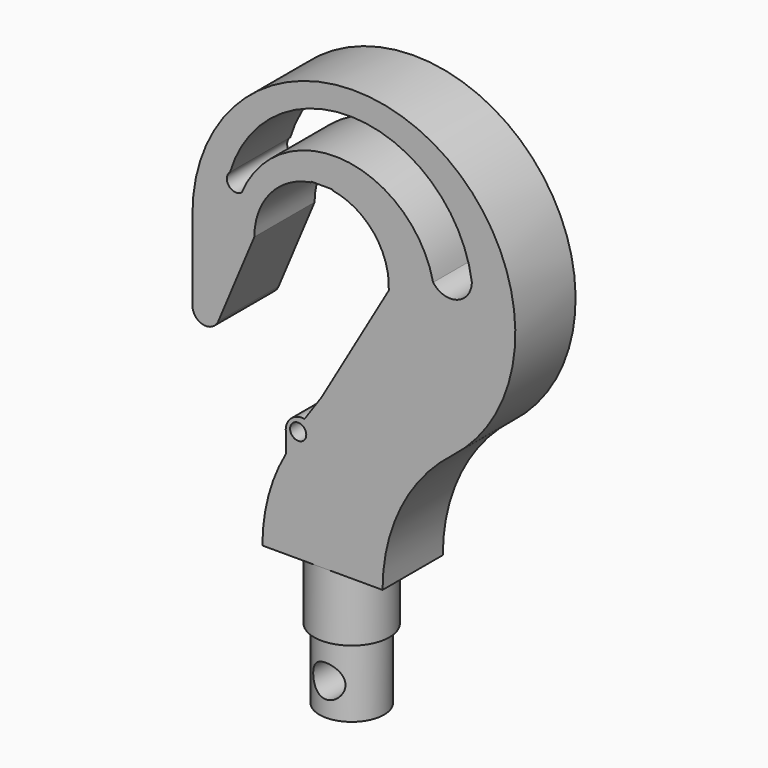
from build123d import *

# Parameters (mm, degrees)
F3_DEPTH = 70
F4_R     = 30
F5_DEPTH = 112
F6_R     = 15
F7_DEPTH = 163
F9_DEPTH = 150


with BuildPart() as f2:
    # F1 (on Front) → F2 (revolve)
    with BuildSketch(Plane.XZ):
        Polygon((-60, -120), (-60, -250), (0, -250), (0, 0), (-70, 0), (-70, -120), align=None)
    revolve(axis=Axis((0, 0, -125), (0, 0, -1)))

    # F0 (on Front) → F3 (join, symmetric)
    with BuildSketch(Plane.XZ):
        with BuildLine():
            ThreePointArc((113.275358, 0), (147.343032, 146.027594), (242.512075, 261.904762))
            ThreePointArc((242.512075, 261.904762), (192.752359, 769.029387), (-240, 500))
            Line((-240, 500), (-125, 500))
            ThreePointArc((-125, 500), (-95.197164, 581.009259), (-20, 623.389627))
            Line((-20, 623.389627), (-20, 624.947867))
            Line((-20, 624.947867), (20, 624.947867))
            Line((20, 624.947867), (20, 623.389627))
            ThreePointArc((20, 623.389627), (97.236318, 578.549974), (124.836727, 493.613169))
            Line((124.836727, 493.613169), (0, 278.411619))
            Line((0, 278.411619), (-31.669397, 232.573897))
            ThreePointArc((-31.669397, 232.573897), (-58.197727, 223.86417), (-66.061109, 197.072774))
            Line((-66.061109, 197.072774), (-66.061109, 164.52672))
            ThreePointArc((-66.061109, 164.52672), (-98.826102, 85.146444), (-110, 0))
            Line((-110, 0), (113.275358, 0))
        make_face()
        with BuildLine():
            Line((-125, 500), (-240, 500))
            Line((-240, 500), (-240, 350))
            ThreePointArc((-240, 350), (-219.930134, 325.490945), (-191.944498, 340.333365))
            Line((-191.944498, 340.333365), (-125, 500))
        make_face()
    extrude(amount=F3_DEPTH, both=True)

    # F4 (on Front) → F5 (cut, symmetric)
    with BuildSketch(Plane.XZ):
        with Locations((0, -190)):
            Circle(F4_R)
    extrude(amount=F5_DEPTH, both=True, mode=Mode.SUBTRACT)

    # F6 (on face) → F7 (cut, symmetric)
    with BuildSketch(Plane.XZ.offset(70)):
        with Locations((-43.483209, 207.776994)):
            Circle(F6_R)
        with Locations((-43.483209, 207.776994)):
            Circle(F6_R)
    extrude(amount=F7_DEPTH, both=True, mode=Mode.SUBTRACT)

    # F8 (on face) → F9 (cut)
    with BuildSketch(Plane.XZ.offset(70)):
        with BuildLine():
            ThreePointArc((207.243012, 533.562227), (251.876022, 519.636331), (279.226912, 557.556839))
            ThreePointArc((279.226912, 557.556839), (68.171297, 754.813507), (-170.094242, 591.460519))
            ThreePointArc((-170.094242, 591.460519), (-171.994625, 567.583929), (-148.132823, 565.506094))
            ThreePointArc((-148.132823, 565.506094), (41.282548, 680.00219), (207.243012, 533.562227))
        make_face()
        with BuildLine():
            ThreePointArc((207.243012, 533.562227), (251.876022, 519.636331), (279.226912, 557.556839))
            ThreePointArc((279.226912, 557.556839), (68.171297, 754.813507), (-170.094242, 591.460519))
            ThreePointArc((-170.094242, 591.460519), (-171.994625, 567.583929), (-148.132823, 565.506094))
            ThreePointArc((-148.132823, 565.506094), (41.282548, 680.00219), (207.243012, 533.562227))
        make_face()
    extrude(amount=-F9_DEPTH, mode=Mode.SUBTRACT)


solid = f2.part
